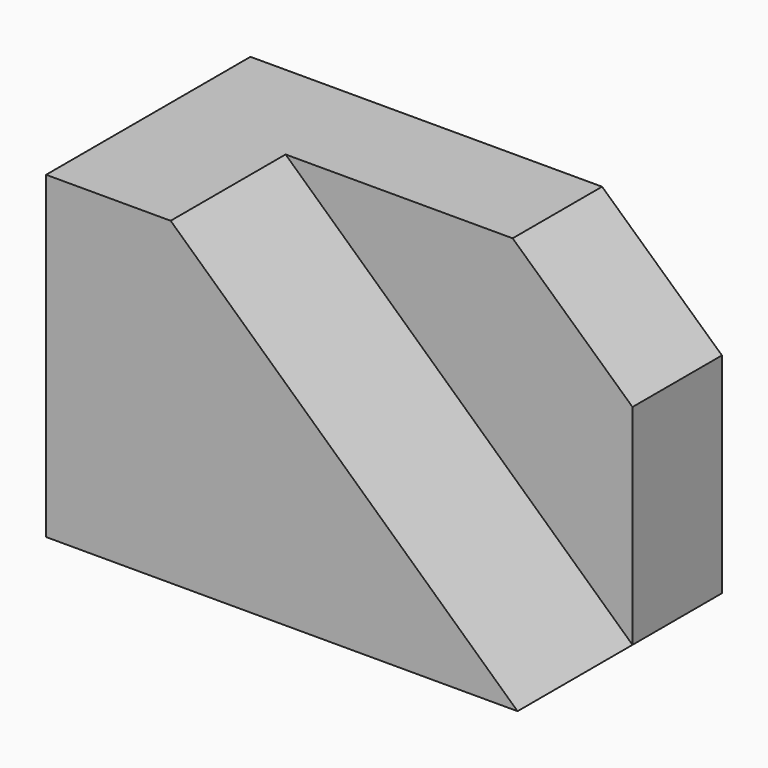
from build123d import *

# Parameters (mm, degrees)
F0_W     = 83.355368
F0_H     = 45.16244
F1_DEPTH = 56.388
F3_DEPTH = 25.4
F5_DEPTH = 25.4


with BuildPart() as f1:
    # F0 (on Top) → F1 (new body)
    with BuildSketch(Plane.XY):
        Rectangle(F0_W, F0_H)
    extrude(amount=F1_DEPTH)

    # F2 (on face) → F3 (cut)
    with BuildSketch(Plane.XZ.offset(22.58122)):
        Polygon((41.677684, 56.388), (-19.654024, 56.388), (41.677684, 0), align=None)
    extrude(amount=-F3_DEPTH, mode=Mode.SUBTRACT)

    # F4 (on face) → F5 (cut)
    with BuildSketch(Plane.XZ.offset(-2.81878)):
        Polygon((41.677684, 56.388), (20.490363, 56.388), (41.677684, 37.021209), align=None)
    extrude(amount=-F5_DEPTH, mode=Mode.SUBTRACT)


solid = f1.part
